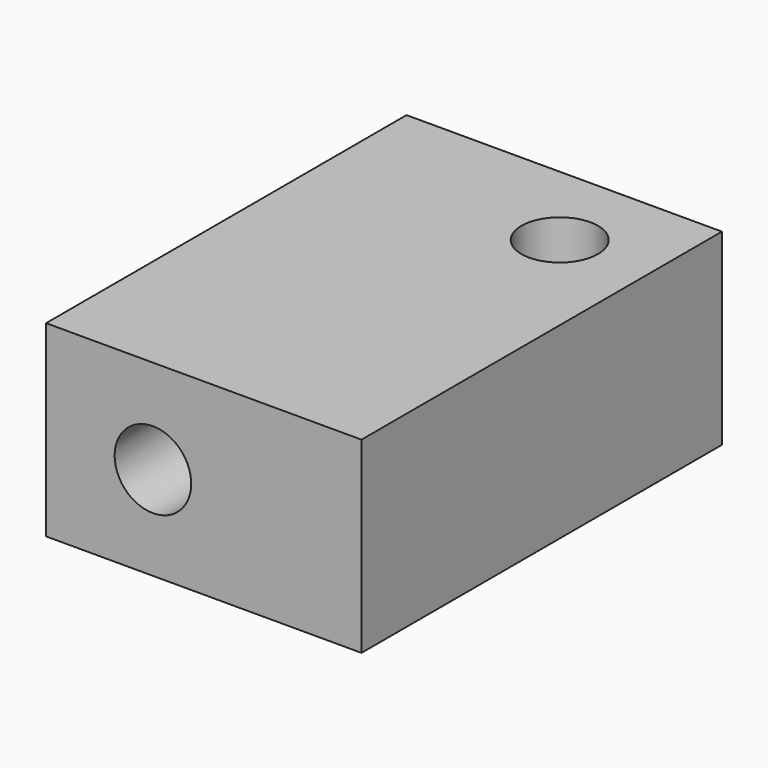
from build123d import *

# Parameters (mm, degrees)
F0_R     = 5.1
F1_DEPTH = 25
F2_R     = 8.75
F2_R_2   = 5.1
F3_DEPTH = 35
F4_DEPTH = 60


with BuildPart() as f1:
    # F0 (on Top) → F1 (new body)
    with BuildSketch(Plane.XY):
        Polygon((-36.4152170994, 48.8581491009), (-36.4152170994, -11.1418508991), (5.5847829006, -11.1418508991), (5.5847829006, 48.8581491009), (-6.4152170994, 48.8581491009), align=None)
        with Locations((-6.4152170994, 36.8581491009)):
            Circle(F0_R, mode=Mode.SUBTRACT)
    extrude(amount=F1_DEPTH)

    # F2 (on face) → F3 (cut)
    with BuildSketch(Plane(origin=(0, 48.8581491009, 0), x_dir=(-1, 0, 0), z_dir=(0, 1, 0))):
        with Locations((22.1885591745, 12.4500216916)):
            Circle(F2_R)
        with Locations((22.1885591745, 12.4500216916)):
            Circle(F2_R_2, mode=Mode.SUBTRACT)
    extrude(amount=-F3_DEPTH, mode=Mode.SUBTRACT)

    # F4 (cut): a face of the model
    f4_faces = [f1.faces().sort_by_distance(p)[0] for p in [
        (-22.1885591745, 48.8581491009, 12.4500216916),
    ]]
    extrude(f4_faces, amount=-F4_DEPTH, mode=Mode.SUBTRACT)


solid = f1.part
